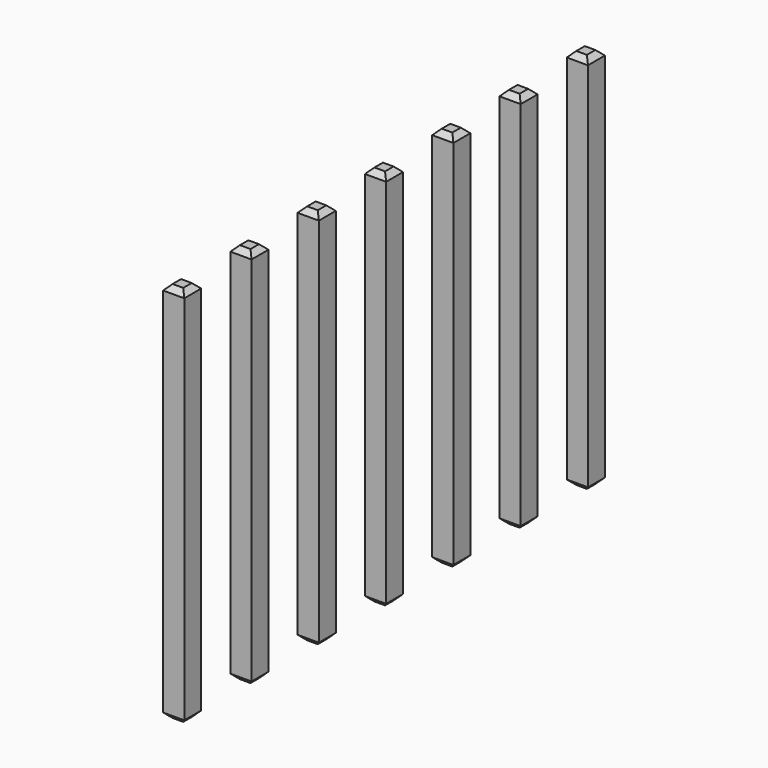
from build123d import *

# Parameters (mm, degrees)
SKETCH015_W      = 0.64
SKETCH015_H      = 0.64
PAD010_DEPTH     = 5.54
PAD011_DEPTH     = 6
CHAMFER_SIZE     = 0.16
ARRAY001_Y_COUNT = 7
ARRAY001_Y_PITCH = 2.54


with BuildPart() as part:
    # Sketch015 → Pad010 (new body)
    with BuildSketch(Plane.XY):
        with Locations((-7.75, 7.62)):
            Rectangle(SKETCH015_W, SKETCH015_H)
    extrude(amount=PAD010_DEPTH)

    # Sketch015 → Pad011 (join)
    with BuildSketch(Plane.XY):
        with Locations((-7.75, 7.62)):
            Rectangle(SKETCH015_W, SKETCH015_H)
    extrude(amount=-PAD011_DEPTH)

    # Chamfer
    chamfer_edges = [part.edges().sort_by_distance(p)[0] for p in [
        (-7.75, 7.3, 5.54),
        (-7.43, 7.62, 5.54),
        (-7.75, 7.94, 5.54),
        (-8.07, 7.62, 5.54),
        (-7.75, 7.3, -6),
        (-7.43, 7.62, -6),
        (-7.75, 7.94, -6),
        (-8.07, 7.62, -6),
    ]]
    chamfer(chamfer_edges, length=CHAMFER_SIZE)

    # Array001 Y: part ×7


with BuildPart() as part_1:
    add(part.part)
    with Locations(*[(0, -i * ARRAY001_Y_PITCH, 0) for i in range(1, ARRAY001_Y_COUNT)]):
        add(part.part)


solid = part_1.part
